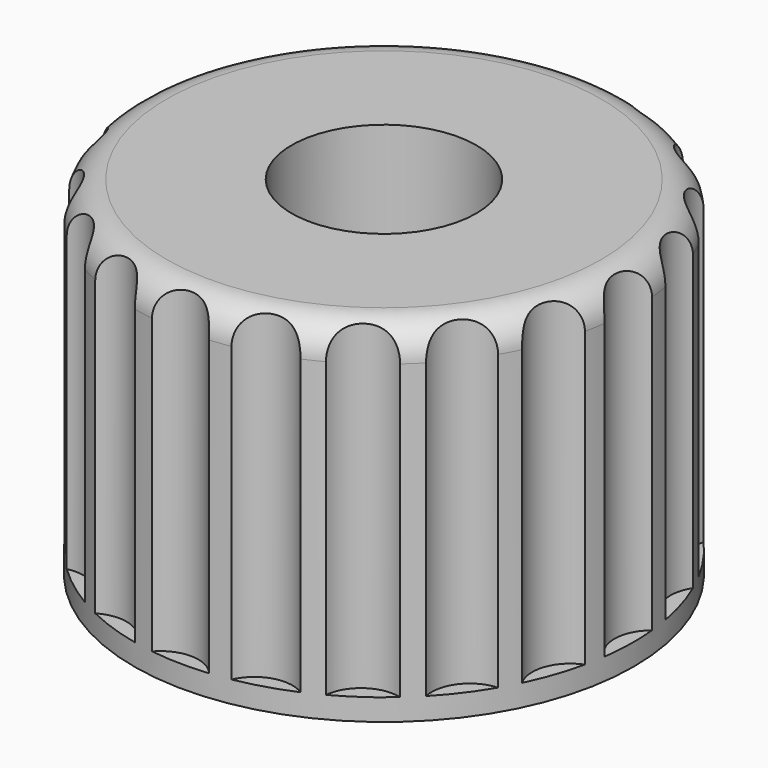
from build123d import *

# Parameters (mm, degrees)
CYLINDER006_R     = 0.35
CYLINDER006_DEPTH = 3
ARRAY_COUNT       = 20
CYLINDER005_R     = 0.85
CYLINDER005_DEPTH = 3.2
CYLINDER002_R     = 2.3
CYLINDER002_DEPTH = 3.2
FILLET001_R       = 0.3


with BuildPart() as array:
    # Cylinder006 → Cylinder006 (new body)
    with BuildSketch(Plane(origin=(2.51021, 16.5511, 26.9), x_dir=(1, 0, 0), z_dir=(0, 0, 1))):
        Circle(CYLINDER006_R)
    extrude(amount=CYLINDER006_DEPTH)

    # Array: Array ×20 about axis
    array_axis = Axis((0, 16.6, 0), (0, 0, 1))


with BuildPart() as array_1:
    add(array.part)
    for i in range(1, ARRAY_COUNT):
        add(array.part.rotate(array_axis, i * 360 / ARRAY_COUNT))


with BuildPart() as cilindro_exterior:
    # Cylinder005 → Cylinder005 (new body)
    with BuildSketch(Plane(origin=(0, 16.6, 26.7), x_dir=(1, 0, 0), z_dir=(0, 0, 1))):
        Circle(CYLINDER005_R)
    extrude(amount=CYLINDER005_DEPTH)


with BuildPart() as eje_engranaje:
    # Cylinder002 → Cylinder002 (new body)
    with BuildSketch(Plane(origin=(0, 16.6, 26.7), x_dir=(1, 0, 0), z_dir=(0, 0, 1))):
        Circle(CYLINDER002_R)
    extrude(amount=CYLINDER002_DEPTH)

    # Cut001: cut Cilindro_exterior
    add(cilindro_exterior.part, mode=Mode.SUBTRACT)

    # Fillet001
    fillet001_edges = [eje_engranaje.edges().sort_by_distance(p)[0] for p in [
        (-2.3, 16.6, 29.9),
    ]]
    fillet(fillet001_edges, radius=FILLET001_R)

    # Cut002: cut Array
    add(array_1.part, mode=Mode.SUBTRACT)


solid = eje_engranaje.part
